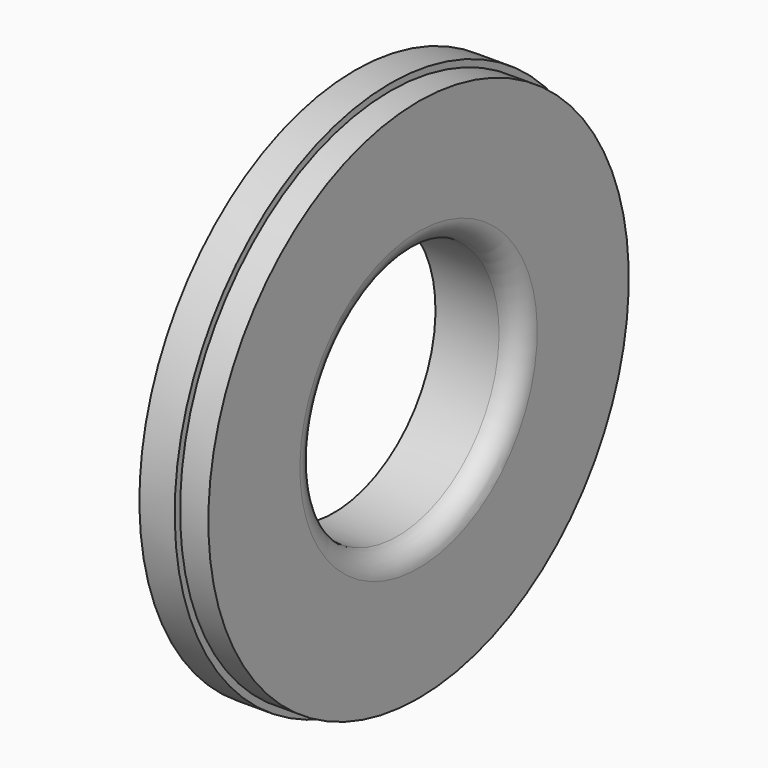
from build123d import *

# Parameters (mm, degrees)
F2_R = 1.5


with BuildPart() as f1:
    # F0 (on Front) → F1 (revolve)
    with BuildSketch(Plane.XZ):
        Polygon((-6, 9), (0, 9), (0, 18.6), (-2, 18.6), (-2, 19.075), (-4.5, 19.075), (-6, 16), align=None)
    revolve(axis=Axis((-10.556801, 0, 0), (-1, 0, 0)))

    # F2
    f2_edges = [f1.edges().sort_by_distance(p)[0] for p in [
        (0, 0, -9),
    ]]
    fillet(f2_edges, radius=F2_R)


solid = f1.part
